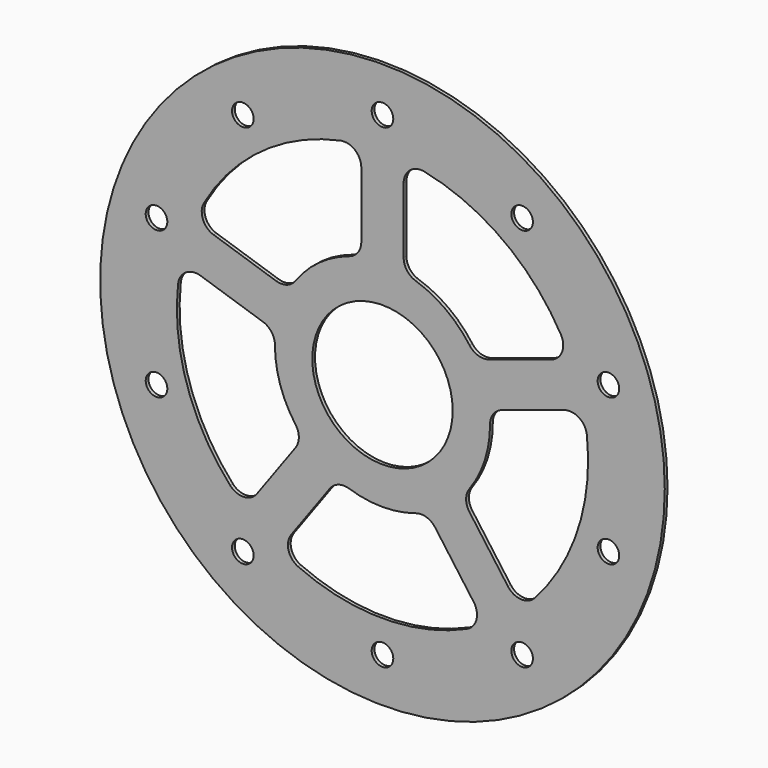
from build123d import *

# Parameters (mm, degrees)
F0_R     = 82.9945
F0_R_2   = 3.175
F0_R_3   = 20.6375
F1_DEPTH = 1.016
F3_DEPTH = 1.017


with BuildPart() as f1:
    # F0 (on Front) → F1 (new body)
    with BuildSketch(Plane.XZ):
        Circle(F0_R)
        with Locations((-41.0568, -56.509837)):
            Circle(F0_R_2, mode=Mode.SUBTRACT)
        with Locations((-66.431298, -21.584837)):
            Circle(F0_R_2, mode=Mode.SUBTRACT)
        with Locations((0, -69.85)):
            Circle(F0_R_2, mode=Mode.SUBTRACT)
        with Locations((41.0568, -56.509837)):
            Circle(F0_R_2, mode=Mode.SUBTRACT)
        with Locations((66.431298, -21.584837)):
            Circle(F0_R_2, mode=Mode.SUBTRACT)
        with Locations((-66.431298, 21.584837)):
            Circle(F0_R_2, mode=Mode.SUBTRACT)
        with Locations((-41.0568, 56.509837)):
            Circle(F0_R_2, mode=Mode.SUBTRACT)
        Circle(F0_R_3, mode=Mode.SUBTRACT)
        with Locations((66.431298, 21.584837)):
            Circle(F0_R_2, mode=Mode.SUBTRACT)
        with Locations((41.0568, 56.509837)):
            Circle(F0_R_2, mode=Mode.SUBTRACT)
        with Locations((0, 69.85)):
            Circle(F0_R_2, mode=Mode.SUBTRACT)
    extrude(amount=F1_DEPTH)

    # F2 (on face) → F3 (cut, through all)
    with BuildSketch(Plane.XZ.offset(1.016)):
        with BuildLine():
            ThreePointArc((-12.339972, 59.17913), (-35.532794, 48.906695), (-52.469436, 30.023368))
            ThreePointArc((-52.469436, 30.023368), (-52.7993, 25.670722), (-49.630046, 22.669029))
            Line((-49.630046, 22.669029), (-31.287145, 16.709059))
            ThreePointArc((-31.287145, 16.709059), (-28.144845, 16.709933), (-25.604213, 18.559052))
            ThreePointArc((-25.604213, 18.559052), (-18.587533, 25.583544), (-9.738571, 30.086116))
            ThreePointArc((-9.738571, 30.086116), (-7.194856, 31.930992), (-6.223, 34.919227))
            Line((-6.223, 34.919227), (-6.223, 54.206094))
            ThreePointArc((-6.223, 54.206094), (-8.098427, 58.147808), (-12.339972, 59.17913))
        make_face()
        with BuildLine():
            ThreePointArc((-60.095958, 6.551346), (-57.493269, -18.680695), (-44.767867, -40.623668))
            ThreePointArc((-44.767867, -40.623668), (-40.730189, -42.282429), (-36.896055, -40.195863))
            Line((-36.896055, -40.195863), (-25.559519, -24.59246))
            ThreePointArc((-25.559519, -24.59246), (-24.589326, -21.603685), (-25.562845, -18.615991))
            ThreePointArc((-25.562845, -18.615991), (-30.07526, -9.772044), (-31.62298, 0.03519))
            ThreePointArc((-31.62298, 0.03519), (-32.59151, 3.024505), (-35.133171, 4.87221))
            Line((-35.133171, 4.87221), (-53.476071, 10.832179))
            ThreePointArc((-53.476071, 10.832179), (-57.804403, 10.266599), (-60.095958, 6.551346))
        make_face()
        with BuildLine():
            ThreePointArc((-24.801372, -55.130175), (0, -60.452), (24.801372, -55.130175))
            ThreePointArc((24.801372, -55.130175), (27.626659, -51.8027), (26.82703, -47.511438))
            Line((26.82703, -47.511438), (15.490494, -31.908036))
            ThreePointArc((15.490494, -31.908036), (12.947805, -30.061745), (9.805506, -30.064367))
            ThreePointArc((9.805506, -30.064367), (0, -31.623), (-9.805506, -30.064367))
            ThreePointArc((-9.805506, -30.064367), (-12.947805, -30.061745), (-15.490494, -31.908036))
            Line((-15.490494, -31.908036), (-26.82703, -47.511438))
            ThreePointArc((-26.82703, -47.511438), (-27.626659, -51.8027), (-24.801372, -55.130175))
        make_face()
        with BuildLine():
            ThreePointArc((52.469436, 30.023368), (35.532794, 48.906695), (12.339972, 59.17913))
            ThreePointArc((12.339972, 59.17913), (8.098427, 58.147808), (6.223, 54.206094))
            Line((6.223, 54.206094), (6.223, 34.919227))
            ThreePointArc((6.223, 34.919227), (7.194856, 31.930992), (9.738571, 30.086116))
            ThreePointArc((9.738571, 30.086116), (18.587533, 25.583544), (25.604213, 18.559052))
            ThreePointArc((25.604213, 18.559052), (28.144845, 16.709933), (31.287145, 16.709059))
            Line((31.287145, 16.709059), (49.630046, 22.669029))
            ThreePointArc((49.630046, 22.669029), (52.7993, 25.670722), (52.469436, 30.023368))
        make_face()
        with BuildLine():
            ThreePointArc((44.767867, -40.623668), (57.493269, -18.680695), (60.095958, 6.551346))
            ThreePointArc((60.095958, 6.551346), (57.804403, 10.266599), (53.476071, 10.832179))
            Line((53.476071, 10.832179), (35.133171, 4.87221))
            ThreePointArc((35.133171, 4.87221), (32.59151, 3.024505), (31.62298, 0.03519))
            ThreePointArc((31.62298, 0.03519), (30.07526, -9.772044), (25.562845, -18.615991))
            ThreePointArc((25.562845, -18.615991), (24.589326, -21.603685), (25.559519, -24.59246))
            Line((25.559519, -24.59246), (36.896055, -40.195863))
            ThreePointArc((36.896055, -40.195863), (40.730189, -42.282429), (44.767867, -40.623668))
        make_face()
    extrude(amount=-F3_DEPTH, mode=Mode.SUBTRACT)


solid = f1.part
